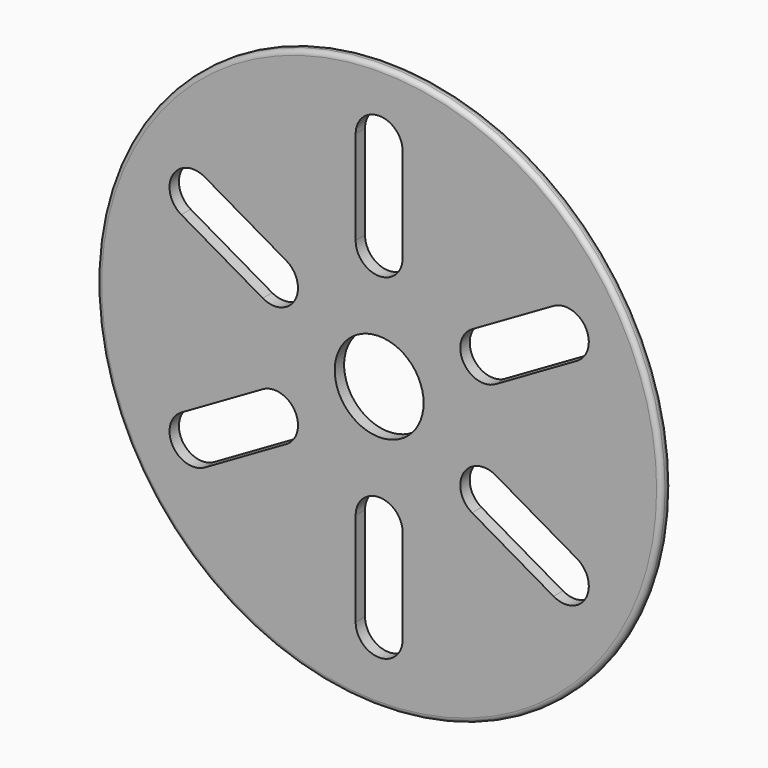
from build123d import *

# Parameters (mm, degrees)
F0_R     = 304.8
F0_R_2   = 48.006
F1_DEPTH = 12.7
F3_DEPTH = 12.701
F4_R     = 5.08


with BuildPart() as f1:
    # F0 (on Front) → F1 (new body)
    with BuildSketch(Plane.XZ):
        Circle(F0_R)
        Circle(F0_R_2, mode=Mode.SUBTRACT)
    extrude(amount=F1_DEPTH)

    # F2 (on face) → F3 (cut, through all)
    with BuildSketch(Plane.XZ.offset(12.7)):
        with BuildLine():
            Line((-25.4, 232.156), (-25.4, 130.556))
            ThreePointArc((-25.4, 130.556), (0, 105.156), (25.4, 130.556))
            Line((25.4, 130.556), (25.4, 232.156))
            ThreePointArc((25.4, 232.156), (0, 257.556), (-25.4, 232.156))
        make_face()
        with BuildLine():
            Line((188.352994, 138.075045), (100.364813, 87.275045))
            ThreePointArc((100.364813, 87.275045), (91.067767, 52.578), (125.764813, 43.280955))
            Line((125.764813, 43.280955), (213.752994, 94.080955))
            ThreePointArc((213.752994, 94.080955), (223.050039, 128.778), (188.352994, 138.075045))
        make_face()
        with BuildLine():
            Line((213.752994, -94.080955), (125.764813, -43.280955))
            ThreePointArc((125.764813, -43.280955), (91.067767, -52.578), (100.364813, -87.275045))
            Line((100.364813, -87.275045), (188.352994, -138.075045))
            ThreePointArc((188.352994, -138.075045), (223.050039, -128.778), (213.752994, -94.080955))
        make_face()
        with BuildLine():
            Line((25.4, -232.156), (25.4, -130.556))
            ThreePointArc((25.4, -130.556), (0, -105.156), (-25.4, -130.556))
            Line((-25.4, -130.556), (-25.4, -232.156))
            ThreePointArc((-25.4, -232.156), (0, -257.556), (25.4, -232.156))
        make_face()
        with BuildLine():
            Line((-188.352994, -138.075045), (-100.364813, -87.275045))
            ThreePointArc((-100.364813, -87.275045), (-91.067767, -52.578), (-125.764813, -43.280955))
            Line((-125.764813, -43.280955), (-213.752994, -94.080955))
            ThreePointArc((-213.752994, -94.080955), (-223.050039, -128.778), (-188.352994, -138.075045))
        make_face()
        with BuildLine():
            Line((-213.752994, 94.080955), (-125.764813, 43.280955))
            ThreePointArc((-125.764813, 43.280955), (-91.067767, 52.578), (-100.364813, 87.275045))
            Line((-100.364813, 87.275045), (-188.352994, 138.075045))
            ThreePointArc((-188.352994, 138.075045), (-223.050039, 128.778), (-213.752994, 94.080955))
        make_face()
    extrude(amount=-F3_DEPTH, mode=Mode.SUBTRACT)

    # F4
    f4_edges = [f1.edges().sort_by_distance(p)[0] for p in [
        (-304.8, 0, 0),
        (-304.8, -12.7, 0),
    ]]
    fillet(f4_edges, radius=F4_R)


solid = f1.part
